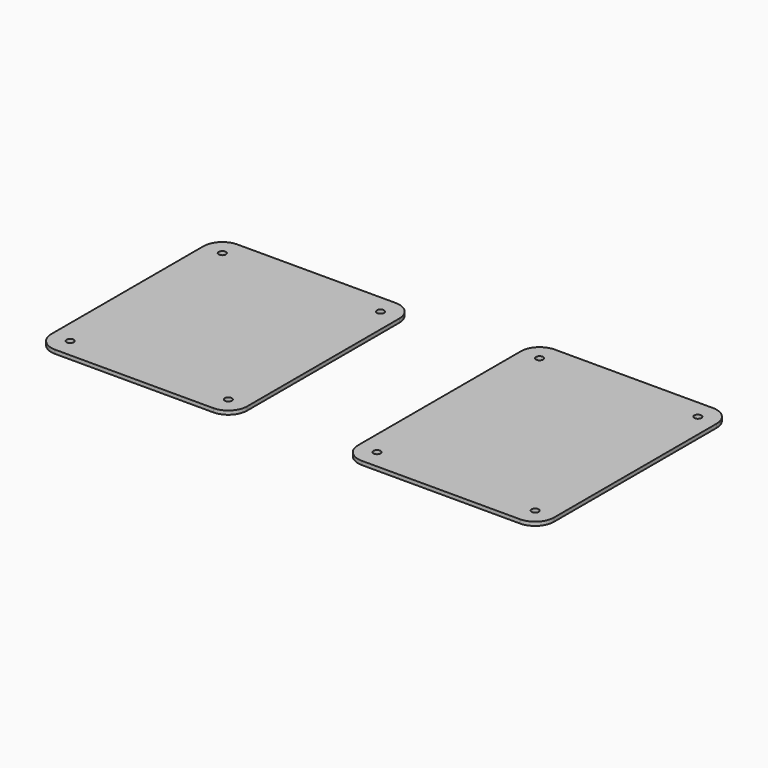
from build123d import *

# Parameters (mm, degrees)
F0_R     = 1.9
F1_DEPTH = 2
F2_R     = 1.9
F3_DEPTH = 2


with BuildPart() as f1:
    # F0 (on Top) → F1 (new body)
    with BuildSketch(Plane.XY):
        with BuildLine():
            Line((84, 111), (0, 111))
            ThreePointArc((0, 111), (-7.071068, 108.071068), (-10, 101))
            Line((-10, 101), (-10, 0))
            ThreePointArc((-10, 0), (-7.071068, -7.071068), (0, -10))
            Line((0, -10), (84, -10))
            ThreePointArc((84, -10), (91.071068, -7.071068), (94, 0))
            Line((94, 0), (94, 101))
            ThreePointArc((94, 101), (91.071068, 108.071068), (84, 111))
        make_face()
        Circle(F0_R, mode=Mode.SUBTRACT)
        with Locations((84, 0)):
            Circle(F0_R, mode=Mode.SUBTRACT)
        with Locations((0, 101)):
            Circle(F0_R, mode=Mode.SUBTRACT)
        with Locations((84, 101)):
            Circle(F0_R, mode=Mode.SUBTRACT)
    extrude(amount=F1_DEPTH)


with BuildPart() as f3:
    # F2 (on Top) → F3 (new body)
    with BuildSketch(Plane.XY):
        with BuildLine():
            Line((245.730002, 119.511579), (161.730002, 119.511579))
            ThreePointArc((161.730002, 119.511579), (154.658934, 116.582647), (151.730002, 109.511579))
            Line((151.730002, 109.511579), (151.730002, 1.511579))
            ThreePointArc((151.730002, 1.511579), (154.658934, -5.559489), (161.730002, -8.488421))
            Line((161.730002, -8.488421), (245.730002, -8.488421))
            ThreePointArc((245.730002, -8.488421), (252.80107, -5.559489), (255.730002, 1.511579))
            Line((255.730002, 1.511579), (255.730002, 109.511579))
            ThreePointArc((255.730002, 109.511579), (252.80107, 116.582647), (245.730002, 119.511579))
        make_face()
        with Locations((161.730002, 1.511579)):
            Circle(F2_R, mode=Mode.SUBTRACT)
        with Locations((245.730002, 1.511579)):
            Circle(F2_R, mode=Mode.SUBTRACT)
        with Locations((161.730002, 109.511579)):
            Circle(F2_R, mode=Mode.SUBTRACT)
        with Locations((245.730002, 109.511579)):
            Circle(F2_R, mode=Mode.SUBTRACT)
    extrude(amount=F3_DEPTH)


solid = Compound([f1.part, f3.part])
